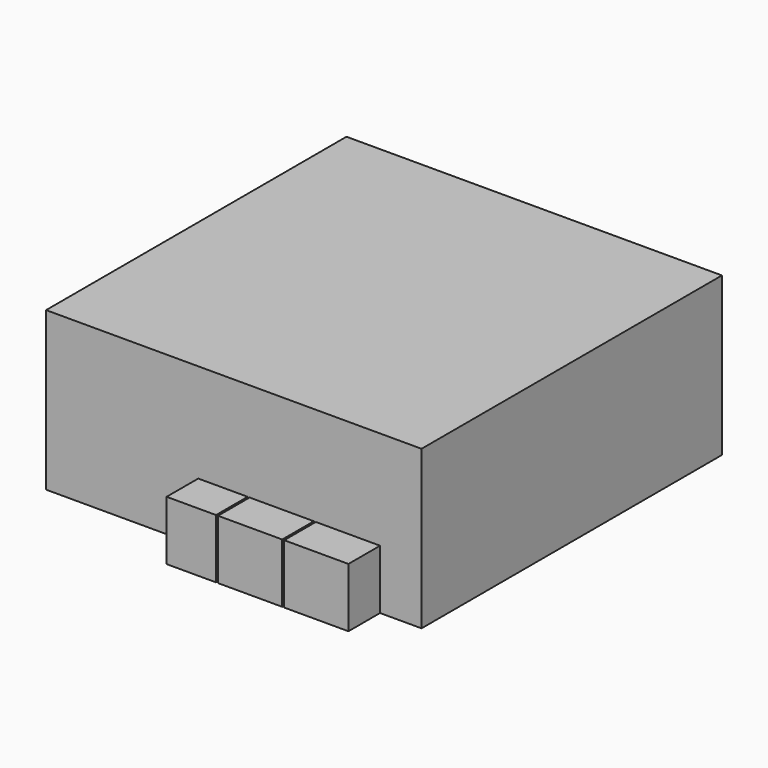
from build123d import *

# Parameters (mm, degrees)
F0_W     = 5791.2
F0_H     = 5791.2
F1_DEPTH = 2438.4
F2_W     = 762
F2_H     = 914.4
F2_W_2   = 990.6
F3_DEPTH = 609.6


with BuildPart() as f1:
    # F0 (on Top) → F1 (new body)
    with BuildSketch(Plane.XY):
        Rectangle(F0_W, F0_H)
    extrude(amount=F1_DEPTH)

    # F2 (on face) → F3 (join)
    with BuildSketch(Plane.XZ.offset(2895.6)):
        with Locations((-167.64, 457.2)):
            Rectangle(F2_W, F2_H)
        with Locations((739.14, 457.2)):
            Rectangle(F2_W_2, F2_H)
        with Locations((1760.22, 457.2)):
            Rectangle(F2_W_2, F2_H)
    extrude(amount=F3_DEPTH)


solid = f1.part
